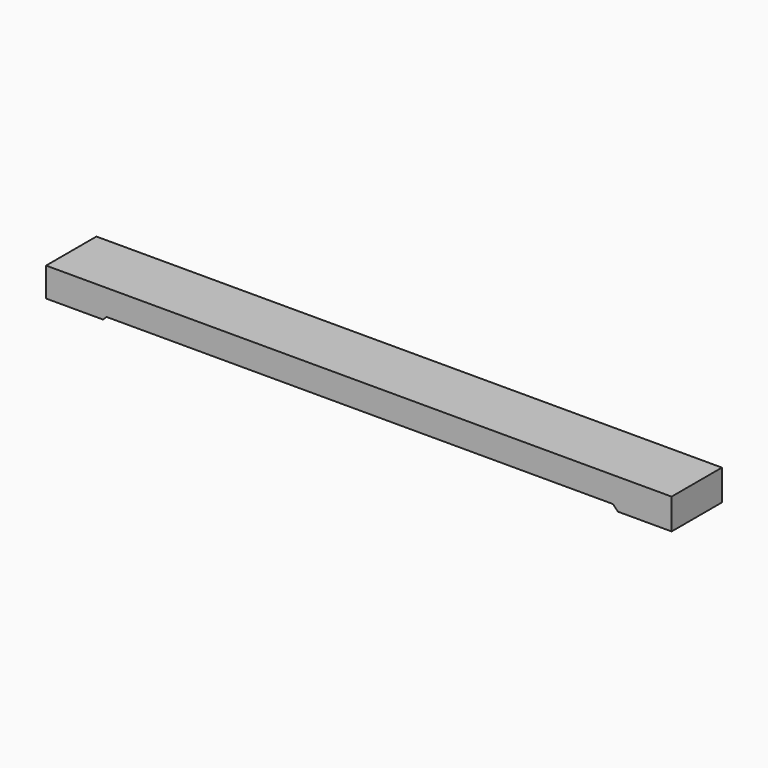
from build123d import *

# Parameters (mm, degrees)
SKETCH030_W      = 9044
SKETCH030_H      = 550
EXTRUDE028_DEPTH = 452
EXTRUDE025_DEPTH = 455


with BuildPart() as extrude028:
    # Sketch030 → Extrude028 (new body, symmetric)
    with BuildSketch(Plane.XZ):
        with Locations((4000, 52)):
            Rectangle(SKETCH030_W, SKETCH030_H)
    extrude(amount=EXTRUDE028_DEPTH, both=True)


with BuildPart() as cut:
    # Sketch → Extrude025 (new body, symmetric)
    with BuildSketch(Plane.XZ):
        Polygon((-525, -89), (-525, 331), (8525, 331), (8525, -113), (7750, -113), (7676, -39), (350, -39), (300, -89), align=None)
    extrude(amount=EXTRUDE025_DEPTH, both=True)

    # Cut: cut Extrude028
    add(extrude028.part, mode=Mode.SUBTRACT)


solid = cut.part
